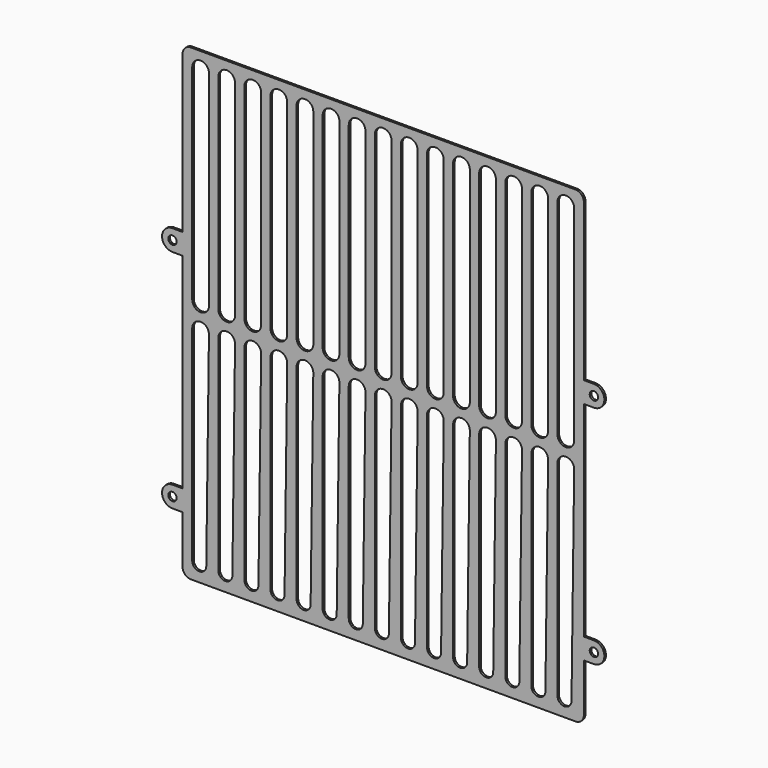
from build123d import *

# Parameters (mm, degrees)
F0_R     = 3.175
F1_DEPTH = 1.524


with BuildPart() as f1:
    # F0 (on Front) → F1 (new body)
    with BuildSketch(Plane.XZ):
        with BuildLine():
            ThreePointArc((-330.2, -171.45), (-328.340128, -175.940128), (-323.85, -177.8))
            Line((-323.85, -177.8), (-31.75, -177.8))
            ThreePointArc((-31.75, -177.8), (-27.259872, -175.940128), (-25.4, -171.45))
            Line((-25.4, -171.45), (-25.4, -134.9375))
            Line((-25.4, -134.9375), (-17.78, -134.9375))
            ThreePointArc((-17.78, -134.9375), (-9.8425, -127), (-17.78, -119.0625))
            Line((-17.78, -119.0625), (-25.4, -119.0625))
            Line((-25.4, -119.0625), (-25.4, 36.5125))
            Line((-25.4, 36.5125), (-17.78, 36.5125))
            ThreePointArc((-17.78, 36.5125), (-9.8425, 44.45), (-17.78, 52.3875))
            Line((-17.78, 52.3875), (-25.4, 52.3875))
            Line((-25.4, 52.3875), (-25.4, 171.45))
            ThreePointArc((-25.4, 171.45), (-27.259872, 175.940128), (-31.75, 177.8))
            Line((-31.75, 177.8), (-323.85, 177.8))
            ThreePointArc((-323.85, 177.8), (-328.340128, 175.940128), (-330.2, 171.45))
            Line((-330.2, 171.45), (-330.2, 52.3875))
            Line((-330.2, 52.3875), (-337.82, 52.3875))
            ThreePointArc((-337.82, 52.3875), (-345.7575, 44.45), (-337.82, 36.5125))
            Line((-337.82, 36.5125), (-330.2, 36.5125))
            Line((-330.2, 36.5125), (-330.2, -119.0625))
            Line((-330.2, -119.0625), (-337.82, -119.0625))
            ThreePointArc((-337.82, -119.0625), (-345.7575, -127), (-337.82, -134.9375))
            Line((-337.82, -134.9375), (-330.2, -134.9375))
            Line((-330.2, -134.9375), (-330.2, -171.45))
        make_face()
        with Locations((-337.82, -127)):
            Circle(F0_R, mode=Mode.SUBTRACT)
        with BuildLine():
            Line((-322.834, -165.1), (-322.834, -9.525))
            ThreePointArc((-322.834, -9.525), (-316.442531, -3.175135), (-310.134542, -9.607935))
            Line((-310.134542, -9.607935), (-312.166455, -165.169666))
            ThreePointArc((-312.166455, -165.169666), (-317.534834, -170.433886), (-322.834, -165.1))
        make_face(mode=Mode.SUBTRACT)
        with BuildLine():
            Line((-303.022, -165.1), (-303.022, -9.525))
            ThreePointArc((-303.022, -9.525), (-296.630531, -3.175135), (-290.322542, -9.607935))
            Line((-290.322542, -9.607935), (-292.354455, -165.169666))
            ThreePointArc((-292.354455, -165.169666), (-297.722834, -170.433886), (-303.022, -165.1))
        make_face(mode=Mode.SUBTRACT)
        with BuildLine():
            Line((-283.21, -165.1), (-283.21, -9.525))
            ThreePointArc((-283.21, -9.525), (-276.818531, -3.175135), (-270.510542, -9.607935))
            Line((-270.510542, -9.607935), (-272.542455, -165.169666))
            ThreePointArc((-272.542455, -165.169666), (-277.910834, -170.433886), (-283.21, -165.1))
        make_face(mode=Mode.SUBTRACT)
        with BuildLine():
            Line((-263.398, -165.1), (-263.398, -9.525))
            ThreePointArc((-263.398, -9.525), (-257.006531, -3.175135), (-250.698542, -9.607935))
            Line((-250.698542, -9.607935), (-252.730455, -165.169666))
            ThreePointArc((-252.730455, -165.169666), (-258.098834, -170.433886), (-263.398, -165.1))
        make_face(mode=Mode.SUBTRACT)
        with BuildLine():
            Line((-243.586, -165.1), (-243.586, -9.525))
            ThreePointArc((-243.586, -9.525), (-237.194531, -3.175135), (-230.886542, -9.607935))
            Line((-230.886542, -9.607935), (-232.918455, -165.169666))
            ThreePointArc((-232.918455, -165.169666), (-238.286834, -170.433886), (-243.586, -165.1))
        make_face(mode=Mode.SUBTRACT)
        with BuildLine():
            Line((-223.774, -165.1), (-223.774, -9.525))
            ThreePointArc((-223.774, -9.525), (-217.382531, -3.175135), (-211.074542, -9.607935))
            Line((-211.074542, -9.607935), (-213.106455, -165.169666))
            ThreePointArc((-213.106455, -165.169666), (-218.474834, -170.433886), (-223.774, -165.1))
        make_face(mode=Mode.SUBTRACT)
        with BuildLine():
            Line((-203.962, -165.1), (-203.962, -9.525))
            ThreePointArc((-203.962, -9.525), (-197.570531, -3.175135), (-191.262542, -9.607935))
            Line((-191.262542, -9.607935), (-193.294455, -165.169666))
            ThreePointArc((-193.294455, -165.169666), (-198.662834, -170.433886), (-203.962, -165.1))
        make_face(mode=Mode.SUBTRACT)
        with BuildLine():
            Line((-184.15, -165.1), (-184.15, -9.525))
            ThreePointArc((-184.15, -9.525), (-177.758531, -3.175135), (-171.450542, -9.607935))
            Line((-171.450542, -9.607935), (-173.482455, -165.169666))
            ThreePointArc((-173.482455, -165.169666), (-178.850834, -170.433886), (-184.15, -165.1))
        make_face(mode=Mode.SUBTRACT)
        with Locations((-17.78, -127)):
            Circle(F0_R, mode=Mode.SUBTRACT)
        with BuildLine():
            Line((-164.338, -165.1), (-164.338, -9.525))
            ThreePointArc((-164.338, -9.525), (-157.946531, -3.175135), (-151.638542, -9.607935))
            Line((-151.638542, -9.607935), (-153.670455, -165.169666))
            ThreePointArc((-153.670455, -165.169666), (-159.038834, -170.433886), (-164.338, -165.1))
        make_face(mode=Mode.SUBTRACT)
        with BuildLine():
            Line((-144.526, -165.1), (-144.526, -9.525))
            ThreePointArc((-144.526, -9.525), (-138.134531, -3.175135), (-131.826542, -9.607935))
            Line((-131.826542, -9.607935), (-133.858455, -165.169666))
            ThreePointArc((-133.858455, -165.169666), (-139.226834, -170.433886), (-144.526, -165.1))
        make_face(mode=Mode.SUBTRACT)
        with BuildLine():
            Line((-124.714, -165.1), (-124.714, -9.525))
            ThreePointArc((-124.714, -9.525), (-118.322531, -3.175135), (-112.014542, -9.607935))
            Line((-112.014542, -9.607935), (-114.046455, -165.169666))
            ThreePointArc((-114.046455, -165.169666), (-119.414834, -170.433886), (-124.714, -165.1))
        make_face(mode=Mode.SUBTRACT)
        with BuildLine():
            Line((-104.902, -165.1), (-104.902, -9.525))
            ThreePointArc((-104.902, -9.525), (-98.510531, -3.175135), (-92.202542, -9.607935))
            Line((-92.202542, -9.607935), (-94.234455, -165.169666))
            ThreePointArc((-94.234455, -165.169666), (-99.602834, -170.433886), (-104.902, -165.1))
        make_face(mode=Mode.SUBTRACT)
        with BuildLine():
            Line((-85.09, -165.1), (-85.09, -9.525))
            ThreePointArc((-85.09, -9.525), (-78.698531, -3.175135), (-72.390542, -9.607935))
            Line((-72.390542, -9.607935), (-74.422455, -165.169666))
            ThreePointArc((-74.422455, -165.169666), (-79.790834, -170.433886), (-85.09, -165.1))
        make_face(mode=Mode.SUBTRACT)
        with BuildLine():
            Line((-65.278, -165.1), (-65.278, -9.525))
            ThreePointArc((-65.278, -9.525), (-58.886531, -3.175135), (-52.578542, -9.607935))
            Line((-52.578542, -9.607935), (-54.610455, -165.169666))
            ThreePointArc((-54.610455, -165.169666), (-59.978834, -170.433886), (-65.278, -165.1))
        make_face(mode=Mode.SUBTRACT)
        with BuildLine():
            Line((-45.466, -165.1), (-45.466, -9.525))
            ThreePointArc((-45.466, -9.525), (-39.074531, -3.175135), (-32.766542, -9.607935))
            Line((-32.766542, -9.607935), (-34.798455, -165.169666))
            ThreePointArc((-34.798455, -165.169666), (-40.166834, -170.433886), (-45.466, -165.1))
        make_face(mode=Mode.SUBTRACT)
        with Locations((-337.82, 44.45)):
            Circle(F0_R, mode=Mode.SUBTRACT)
        with BuildLine():
            Line((-322.834, 9.525), (-322.834, 165.1))
            ThreePointArc((-322.834, 165.1), (-316.484, 171.45), (-310.134, 165.1))
            Line((-310.134, 165.1), (-310.134, 9.525))
            ThreePointArc((-310.134, 9.525), (-316.484, 3.175), (-322.834, 9.525))
        make_face(mode=Mode.SUBTRACT)
        with BuildLine():
            ThreePointArc((-303.022, 165.1), (-296.672, 171.45), (-290.322, 165.1))
            Line((-290.322, 165.1), (-290.322, 9.525))
            ThreePointArc((-290.322, 9.525), (-296.672, 3.175), (-303.022, 9.525))
            Line((-303.022, 9.525), (-303.022, 165.1))
        make_face(mode=Mode.SUBTRACT)
        with BuildLine():
            ThreePointArc((-283.21, 165.1), (-276.86, 171.45), (-270.51, 165.1))
            Line((-270.51, 165.1), (-270.51, 9.525))
            ThreePointArc((-270.51, 9.525), (-276.86, 3.175), (-283.21, 9.525))
            Line((-283.21, 9.525), (-283.21, 165.1))
        make_face(mode=Mode.SUBTRACT)
        with BuildLine():
            ThreePointArc((-263.398, 165.1), (-257.048, 171.45), (-250.698, 165.1))
            Line((-250.698, 165.1), (-250.698, 9.525))
            ThreePointArc((-250.698, 9.525), (-257.048, 3.175), (-263.398, 9.525))
            Line((-263.398, 9.525), (-263.398, 165.1))
        make_face(mode=Mode.SUBTRACT)
        with BuildLine():
            ThreePointArc((-243.586, 165.1), (-237.236, 171.45), (-230.886, 165.1))
            Line((-230.886, 165.1), (-230.886, 9.525))
            ThreePointArc((-230.886, 9.525), (-237.236, 3.175), (-243.586, 9.525))
            Line((-243.586, 9.525), (-243.586, 165.1))
        make_face(mode=Mode.SUBTRACT)
        with BuildLine():
            ThreePointArc((-223.774, 165.1), (-217.424, 171.45), (-211.074, 165.1))
            Line((-211.074, 165.1), (-211.074, 9.525))
            ThreePointArc((-211.074, 9.525), (-217.424, 3.175), (-223.774, 9.525))
            Line((-223.774, 9.525), (-223.774, 165.1))
        make_face(mode=Mode.SUBTRACT)
        with BuildLine():
            ThreePointArc((-203.962, 165.1), (-197.612, 171.45), (-191.262, 165.1))
            Line((-191.262, 165.1), (-191.262, 9.525))
            ThreePointArc((-191.262, 9.525), (-197.612, 3.175), (-203.962, 9.525))
            Line((-203.962, 9.525), (-203.962, 165.1))
        make_face(mode=Mode.SUBTRACT)
        with BuildLine():
            ThreePointArc((-184.15, 165.1), (-177.8, 171.45), (-171.45, 165.1))
            Line((-171.45, 165.1), (-171.45, 9.525))
            ThreePointArc((-171.45, 9.525), (-177.8, 3.175), (-184.15, 9.525))
            Line((-184.15, 9.525), (-184.15, 165.1))
        make_face(mode=Mode.SUBTRACT)
        with BuildLine():
            ThreePointArc((-164.338, 165.1), (-157.988, 171.45), (-151.638, 165.1))
            Line((-151.638, 165.1), (-151.638, 9.525))
            ThreePointArc((-151.638, 9.525), (-157.988, 3.175), (-164.338, 9.525))
            Line((-164.338, 9.525), (-164.338, 165.1))
        make_face(mode=Mode.SUBTRACT)
        with BuildLine():
            ThreePointArc((-144.526, 165.1), (-138.176, 171.45), (-131.826, 165.1))
            Line((-131.826, 165.1), (-131.826, 9.525))
            ThreePointArc((-131.826, 9.525), (-138.176, 3.175), (-144.526, 9.525))
            Line((-144.526, 9.525), (-144.526, 165.1))
        make_face(mode=Mode.SUBTRACT)
        with BuildLine():
            ThreePointArc((-124.714, 165.1), (-118.364, 171.45), (-112.014, 165.1))
            Line((-112.014, 165.1), (-112.014, 9.525))
            ThreePointArc((-112.014, 9.525), (-118.364, 3.175), (-124.714, 9.525))
            Line((-124.714, 9.525), (-124.714, 165.1))
        make_face(mode=Mode.SUBTRACT)
        with BuildLine():
            ThreePointArc((-104.902, 165.1), (-98.552, 171.45), (-92.202, 165.1))
            Line((-92.202, 165.1), (-92.202, 9.525))
            ThreePointArc((-92.202, 9.525), (-98.552, 3.175), (-104.902, 9.525))
            Line((-104.902, 9.525), (-104.902, 165.1))
        make_face(mode=Mode.SUBTRACT)
        with BuildLine():
            ThreePointArc((-85.09, 165.1), (-78.74, 171.45), (-72.39, 165.1))
            Line((-72.39, 165.1), (-72.39, 9.525))
            ThreePointArc((-72.39, 9.525), (-78.74, 3.175), (-85.09, 9.525))
            Line((-85.09, 9.525), (-85.09, 165.1))
        make_face(mode=Mode.SUBTRACT)
        with BuildLine():
            ThreePointArc((-65.278, 165.1), (-58.928, 171.45), (-52.578, 165.1))
            Line((-52.578, 165.1), (-52.578, 9.525))
            ThreePointArc((-52.578, 9.525), (-58.928, 3.175), (-65.278, 9.525))
            Line((-65.278, 9.525), (-65.278, 165.1))
        make_face(mode=Mode.SUBTRACT)
        with Locations((-17.78, 44.45)):
            Circle(F0_R, mode=Mode.SUBTRACT)
        with BuildLine():
            ThreePointArc((-45.466, 165.1), (-39.116, 171.45), (-32.766, 165.1))
            Line((-32.766, 165.1), (-32.766, 9.525))
            ThreePointArc((-32.766, 9.525), (-39.116, 3.175), (-45.466, 9.525))
            Line((-45.466, 9.525), (-45.466, 165.1))
        make_face(mode=Mode.SUBTRACT)
    extrude(amount=F1_DEPTH)


solid = f1.part
